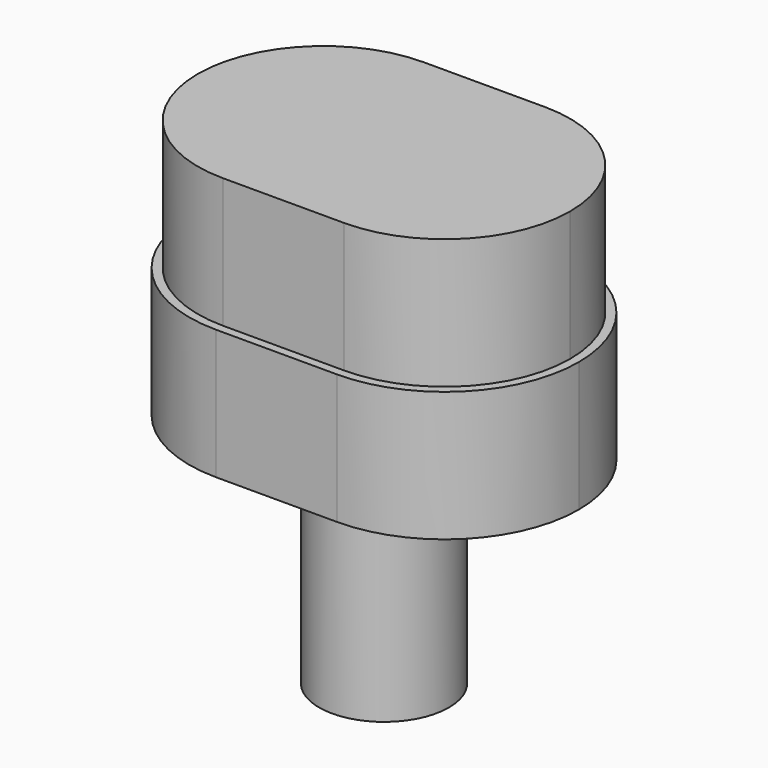
from build123d import *

# Parameters (mm, degrees)
F1_DEPTH = 15
F3_DEPTH = 15
F4_R     = 7.5
F5_DEPTH = 25


with BuildPart() as f1:
    # F0 (on Top) → F1 (new body)
    with BuildSketch(Plane.XY):
        with BuildLine():
            ThreePointArc((22.5, 0), (17.960155, 10.960155), (7, 15.5))
            Line((7, 15.5), (-7, 15.5))
            ThreePointArc((-7, 15.5), (-17.960155, 10.960155), (-22.5, 0))
            Line((-22.5, 0), (-7, 0))
            Line((-7, 0), (0, 0))
            Line((0, 0), (7, 0))
            Line((7, 0), (22.5, 0))
        make_face()
        with BuildLine():
            ThreePointArc((7, -15.5), (17.960155, -10.960155), (22.5, 0))
            Line((22.5, 0), (7, 0))
            Line((7, 0), (0, 0))
            Line((0, 0), (-7, 0))
            Line((-7, 0), (-22.5, 0))
            ThreePointArc((-22.5, 0), (-17.960155, -10.960155), (-7, -15.5))
            Line((-7, -15.5), (7, -15.5))
        make_face()
    extrude(amount=F1_DEPTH)

    # F2 (on face) → F3 (join)
    with BuildSketch(Plane.XY.offset(15)):
        with BuildLine():
            ThreePointArc((21.5, 0), (17.253048, 10.253048), (7, 14.5))
            Line((7, 14.5), (-7, 14.5))
            ThreePointArc((-7, 14.5), (-17.253048, 10.253048), (-21.5, 0))
            Line((-21.5, 0), (-7, 0))
            Line((-7, 0), (0, 0))
            Line((0, 0), (7, 0))
            Line((7, 0), (21.5, 0))
        make_face()
        with BuildLine():
            ThreePointArc((7, -14.5), (17.253048, -10.253048), (21.5, 0))
            Line((21.5, 0), (7, 0))
            Line((7, 0), (0, 0))
            Line((0, 0), (-7, 0))
            Line((-7, 0), (-21.5, 0))
            ThreePointArc((-21.5, 0), (-17.253048, -10.253048), (-7, -14.5))
            Line((-7, -14.5), (7, -14.5))
        make_face()
    extrude(amount=F3_DEPTH)

    # F4 (on face) → F5 (join)
    with BuildSketch(Plane(origin=(0, 0, 0), x_dir=(1, 0, 0), z_dir=(0, 0, -1))):
        Circle(F4_R)
    extrude(amount=F5_DEPTH)


solid = f1.part
